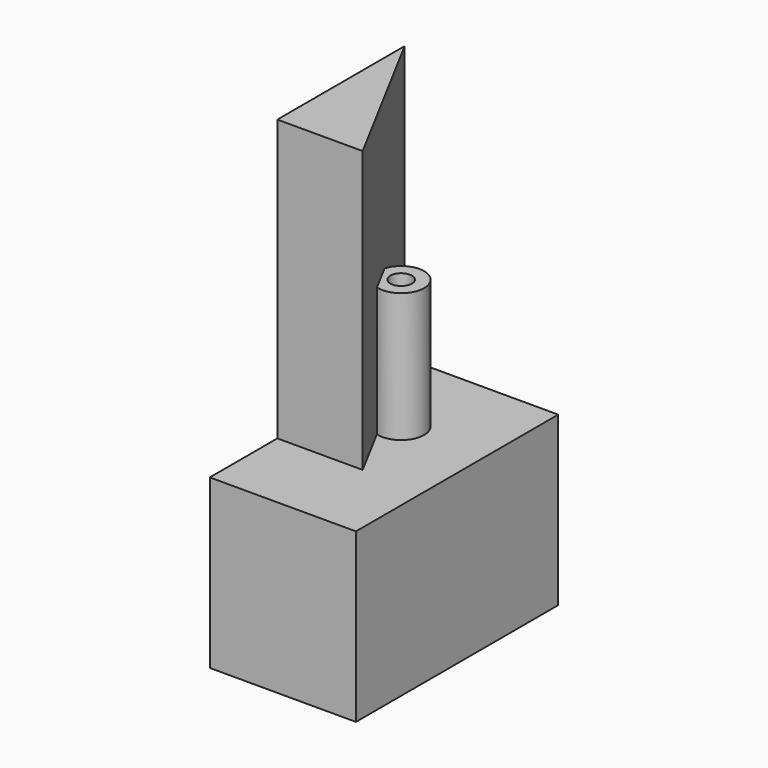
from build123d import *

# Parameters (mm, degrees)
F0_W     = 91.597288847
F0_H     = 60.767069459
F1_DEPTH = 52.9421810061
F2_R     = 8.3288668083
F2_R_2   = 3.9203402896
F3_DEPTH = 46.854743734
F6_DEPTH = 101.6741897911


with BuildPart() as f1:
    # F0 (on Right) → F1 (new body)
    with BuildSketch(Plane.YZ):
        with Locations((15.2086205781, 24.4252681732)):
            Rectangle(F0_W, F0_H)
    extrude(amount=F1_DEPTH)

    # F2 (on face) → F3 (join)
    with BuildSketch(Plane.XY.offset(54.8088029027)):
        with Locations((22.8059887886, 27.5532379746)):
            Circle(F2_R)
        with Locations((22.8059887886, 27.5532379746)):
            Circle(F2_R_2, mode=Mode.SUBTRACT)
    extrude(amount=F3_DEPTH)

    # F5 (on face) → F6 (join)
    with BuildSketch(Plane.XY.offset(54.8088029027)):
        Polygon((0, 0), (30.9126600623, 0), (0, 57.6490387321), align=None)
    extrude(amount=F6_DEPTH)


solid = f1.part
